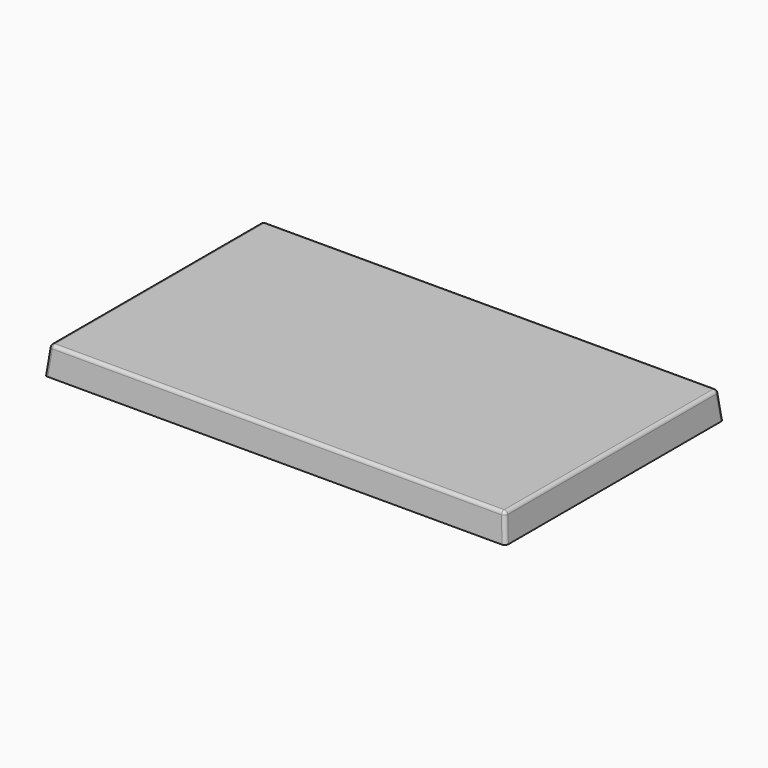
from build123d import *

# Parameters (mm, degrees)
SKETCH002_W = 348
SKETCH002_H = 204
SKETCH001_W = 352.462198
SKETCH001_H = 208.462198
THICKNESS_T = -3
FILLET_R    = 2.7


with BuildPart() as part:
    # Sketch002 → AdditiveLoft section 0
    with BuildSketch(Plane.XY.offset(52)):
        Rectangle(SKETCH002_W, SKETCH002_H)
    # Sketch001 → AdditiveLoft section 1
    with BuildSketch(Plane.XY.offset(31)):
        Rectangle(SKETCH001_W, SKETCH001_H)
    loft()

    # Thickness
    thickness_openings = [part.faces().sort_by_distance(p)[0] for p in [
        (0, 0, 31),
    ]]
    offset(amount=THICKNESS_T, openings=thickness_openings, kind=Kind.INTERSECTION)

    # Fillet
    fillet_edges = [part.edges().sort_by_distance(p)[0] for p in [
        (-175.115549, -103.115549, 41.5),
        (0, -102, 52),
        (-174, 0, 52),
        (0, 102, 52),
        (175.115549, -103.115549, 41.5),
        (174, 0, 52),
        (175.115549, 103.115549, 41.5),
        (-175.115549, 103.115549, 41.5),
    ]]
    fillet(fillet_edges, radius=FILLET_R)


solid = part.part
